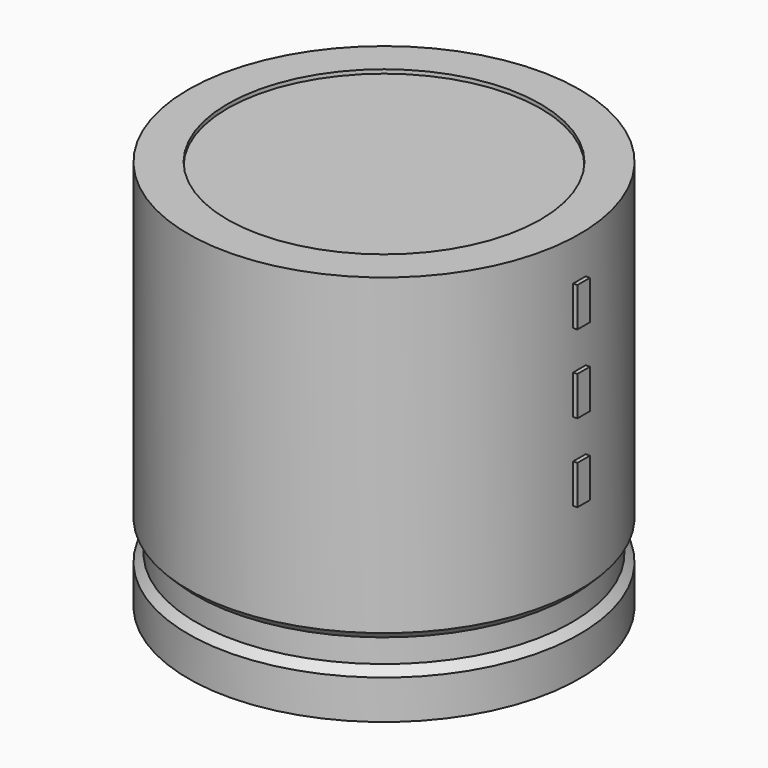
from build123d import *

# Parameters (mm, degrees)
SKETCH002_W  = 13.8
SKETCH002_H  = 29.4
SKETCH003_R  = 0.85
PAD_DEPTH    = 6
SKETCH004_W  = 1.2
SKETCH004_H  = 3
PAD001_DEPTH = 15.3


with BuildPart() as revolution:
    # Sketch → Revolution (revolve)
    with BuildSketch(Plane.XZ):
        Polygon((-10, 0.1), (-10, 3.1), (-9.4, 3.7), (-9.4, 5.5), (-10, 6.1), (-10, 30.1), (-7, 30.1), (-7, 0.1), align=None)
    revolve(axis=Axis((5, 0, 7.548619), (0, 0, -1)))


with BuildPart() as revolution001:
    # Sketch002 → Revolution001 (revolve)
    with BuildSketch(Plane.XZ):
        with Locations((-1.9, 15.1)):
            Rectangle(SKETCH002_W, SKETCH002_H)
    revolve(axis=Axis((5, 0, 4.680116), (0, 0, -1)))


with BuildPart() as pad:
    # Sketch003 → Pad (new body)
    with BuildSketch(Plane.XY.offset(3)):
        Circle(SKETCH003_R)
        with Locations((10, 0)):
            Circle(SKETCH003_R)
    extrude(amount=-PAD_DEPTH)


with BuildPart() as pad001:
    # Sketch004 → Pad001 (new body)
    with BuildSketch(Plane.YZ.offset(5)):
        with Locations((0, 13.5)):
            Rectangle(SKETCH004_W, SKETCH004_H)
        with Locations((0, 19.5)):
            Rectangle(SKETCH004_W, SKETCH004_H)
        with Locations((0, 25.5)):
            Rectangle(SKETCH004_W, SKETCH004_H)
    extrude(amount=PAD001_DEPTH)


solid = Compound([revolution.part, revolution001.part, pad.part, pad001.part])
